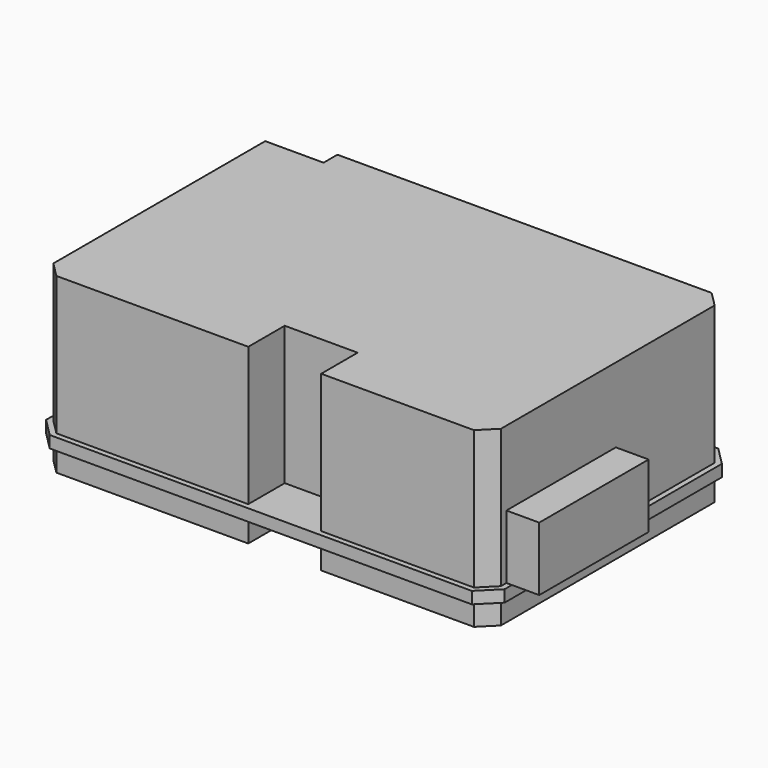
from build123d import *

# Parameters (mm, degrees)
F0_W          = 11
F0_H          = 15
F1_DEPTH      = 1.3
F0_W_2        = 3
F2_DEPTH      = 7
F3_SIZE       = 2
F5_DEPTH      = 2.5
F5_DEPTH_BACK = 16.5


with BuildPart() as f1:
    # F0 (on Top) → F1 (new body)
    with BuildSketch(Plane.XY):
        Polygon((22.3, -115.8), (22.3, -100), (-28, -100), (-28, -133.8), (22.3, -133.8), (22.3, -130.8), (11.3, -130.8), (11.3, -115.8), align=None)
        with Locations((16.8, -123.3)):
            Rectangle(F0_W, F0_H)
    extrude(amount=-F1_DEPTH)

    # F0 (on Top) → F2 (join)
    with BuildSketch(Plane.XY):
        with Locations((23.8, -123.3)):
            Rectangle(F0_W_2, F0_H)
        with Locations((16.8, -123.3)):
            Rectangle(F0_W, F0_H)
    extrude(amount=F2_DEPTH)

    # F3
    f3_edges = [f1.edges().sort_by_distance(p)[0] for p in [
        (22.3, -133.8, -0.65),
        (-28, -133.8, -0.65),
        (22.3, -100, -0.65),
        (-28, -100, -0.65),
    ]]
    chamfer(f3_edges, length=F3_SIZE)

    # F4 (on face) → F5 (join, two sides)
    with BuildSketch(Plane(origin=(0, 0, -1.3), x_dir=(1, 0, 0), z_dir=(0, 0, -1))) as f5_sk:
        Polygon((-25.751472, 133.2), (-27.4, 131.551472), (-27.4, 102.5), (-21, 102.5), (-21, 100.6), (20.051472, 100.6), (21.7, 102.248528), (21.7, 131.551472), (20.051472, 133.2), (3.3, 133.2), (3.3, 128.2), (-4.7, 128.2), (-4.7, 133.2), align=None)
    extrude(amount=F5_DEPTH)
    extrude(f5_sk.sketch, amount=-F5_DEPTH_BACK)


with BuildPart() as f1_1:
    # F6: moved
    add(f1.part.moved(Location((0, 0, 4))))


solid = f1_1.part
